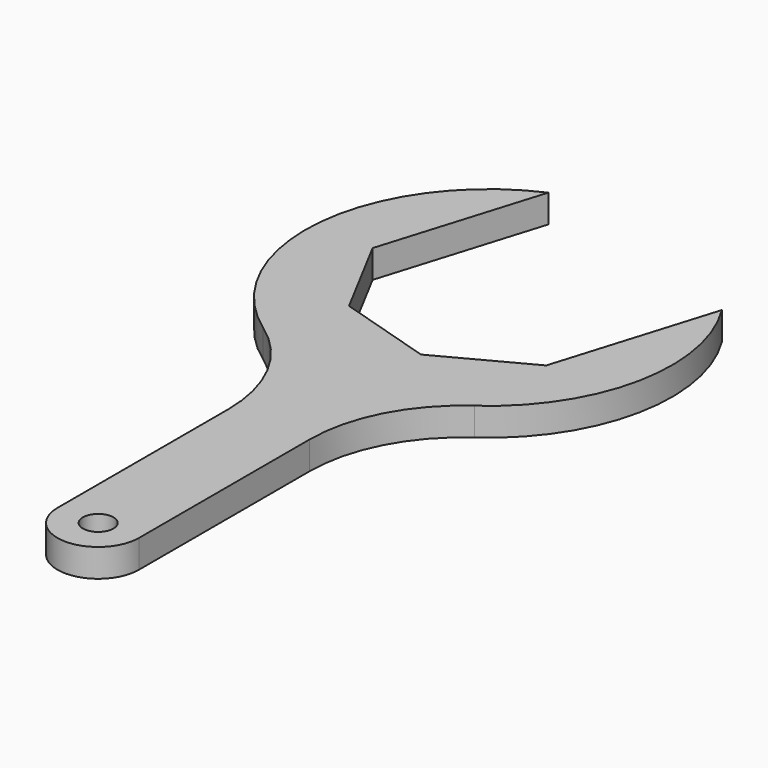
from build123d import *

# Parameters (mm, degrees)
F0_R     = 3
F1_DEPTH = 5.5


with BuildPart() as f1:
    # F0 (on Top) → F1 (new body)
    with BuildSketch(Plane.XY):
        with BuildLine():
            Line((-9.269262, -58.114518), (-9.269262, -100))
            ThreePointArc((-9.269262, -100), (-1.269262, -108), (6.730738, -100))
            Line((6.730738, -100), (6.730738, -58.114518))
            ThreePointArc((6.730738, -58.114518), (10.101977, -44.297532), (19.458011, -33.585904))
            ThreePointArc((19.458011, -33.585904), (34.019936, -11.27003), (29.24774, 14.945882))
            Line((29.24774, 14.945882), (19.71073, -16.248272))
            Line((19.71073, -16.248272), (2.448328, -25.426854))
            Line((2.448328, -25.426854), (-16.248272, -19.71073))
            Line((-16.248272, -19.71073), (-25.426854, -2.448328))
            Line((-25.426854, -2.448328), (-15.889844, 28.745827))
            ThreePointArc((-15.889844, 28.745827), (-37.097726, -0.641424), (-21.996534, -33.585904))
            ThreePointArc((-21.996534, -33.585904), (-12.640501, -44.297532), (-9.269262, -58.114518))
        make_face()
        with Locations((-1.269262, -100)):
            Circle(F0_R, mode=Mode.SUBTRACT)
    extrude(amount=F1_DEPTH)


solid = f1.part
